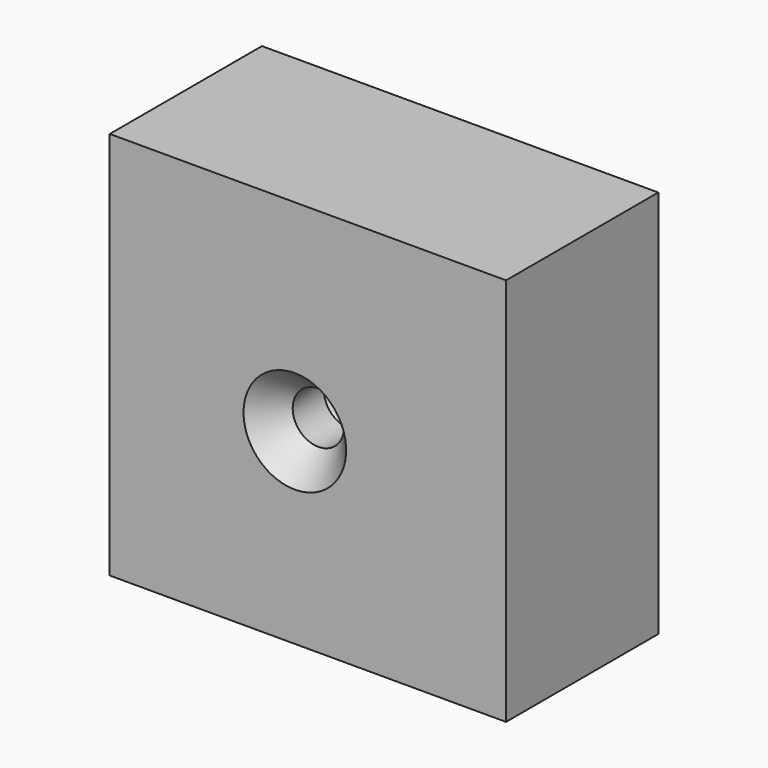
from build123d import *

# Parameters (mm, degrees)
F0_W           = 52.0708113909
F0_H           = 51.080558449
F1_DEPTH       = 25
F3_D           = 6.7564
F3_DEPTH       = 9
F3_CSINK_D     = 13.4874
F3_CSINK_ANGLE = 82
F3_TIP         = 2.0298273432


with BuildPart() as f1:
    # F0 (on Front) → F1 (new body)
    with BuildSketch(Plane.XZ):
        with Locations((-76.7710357904, 52.9402159154)):
            Rectangle(F0_W, F0_H)
    extrude(amount=F1_DEPTH)

    # F3
    with Locations(Plane.XZ.offset(25)):
        with Locations((-78.4889310598, 51.9887022674)):
            CounterSinkHole(F3_D / 2, F3_CSINK_D / 2, depth=F3_DEPTH, counter_sink_angle=F3_CSINK_ANGLE)
            with Locations((0, 0, -(F3_DEPTH + F3_TIP / 2))):  # 118° drill point
                Cone(0, F3_D / 2, F3_TIP, mode=Mode.SUBTRACT)


solid = f1.part
